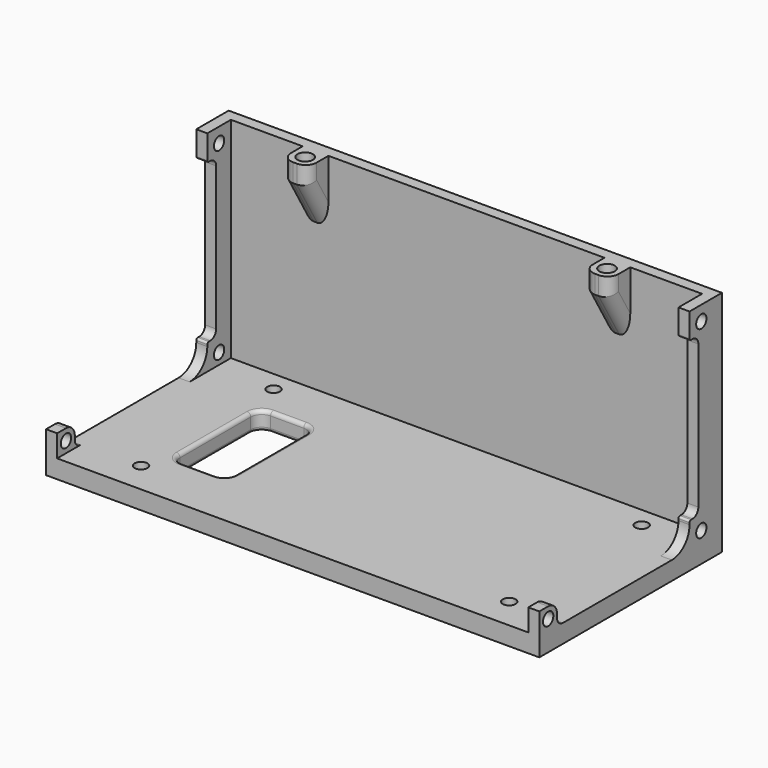
from build123d import *

# Parameters (mm, degrees)
SKETCH_W        = 134
SKETCH_H        = 62
PAD_DEPTH       = 5
SKETCH001_W     = 134
SKETCH001_H     = 3
PAD001_DEPTH    = 57
SKETCH002_W     = 7
SKETCH002_H     = 17
PAD002_DEPTH    = 7
POCKET_DEPTH    = 89
FILLET_R        = 3
SKETCH004_W     = 3
SKETCH004_H     = 57
PAD003_DEPTH    = 5
SKETCH005_W     = 3
SKETCH005_H     = 7
PAD004_DEPTH    = 3
SKETCH006_R     = 1.75
POCKET001_DEPTH = 134.001
SKETCH007_R     = 1.75
POCKET002_DEPTH = 5
SKETCH008_R     = 1.75
POCKET003_DEPTH = 5
SKETCH009_W     = 3
SKETCH009_H     = 6
PAD005_DEPTH    = 6
SKETCH010_R     = 1.75
POCKET004_DEPTH = 134.001
FILLET001_R     = 3
FILLET002_R     = 2
FILLET003_R     = 3
FILLET004_R     = 2
FILLET005_R     = 6
FILLET006_R     = 6
FILLET007_R     = 2
FILLET008_R     = 0.5
FILLET009_R     = 2
FILLET010_R     = 0.5
FILLET011_R     = 2
FILLET012_R     = 0.5
FILLET013_R     = 2
FILLET014_R     = 0.5
SKETCH011_R     = 1.75
POCKET005_DEPTH = 5
SKETCH012_R     = 2.1
POCKET006_DEPTH = 5
POCKET007_DEPTH = 5
FILLET015_R     = 1
FILLET016_R     = 1


with BuildPart() as part:
    # Sketch → Pad (new body)
    with BuildSketch(Plane.XY):
        with Locations((67, -31)):
            Rectangle(SKETCH_W, SKETCH_H)
    extrude(amount=PAD_DEPTH)

    # Sketch001 (on Face6 of Pad) → Pad001 (join)
    with BuildSketch(Plane.XY.offset(5)):
        with Locations((67, -1.5)):
            Rectangle(SKETCH001_W, SKETCH001_H)
    extrude(amount=PAD001_DEPTH)

    # Sketch002 (on Face11 of Pad001) → Pad002 (join)
    with BuildSketch(Plane.XZ.offset(3)):
        with Locations((26, 53.5)):
            Rectangle(SKETCH002_W, SKETCH002_H)
        with Locations((108, 53.5)):
            Rectangle(SKETCH002_W, SKETCH002_H)
    extrude(amount=PAD002_DEPTH)

    # Sketch003 (on Face14 of Pad002) → Pocket (cut)
    with BuildSketch(Plane(origin=(22.5, 0, 0), x_dir=(0, -1, 0), z_dir=(-1, 0, 0))):
        Polygon((3, 45), (10, 57), (10, 45), align=None)
    extrude(amount=-POCKET_DEPTH, mode=Mode.SUBTRACT)

    # Fillet
    fillet_edges = [part.edges().sort_by_distance(p)[0] for p in [
        (104.5, -10, 59.5),
        (111.5, -10, 59.5),
        (111.5, -6.5, 51),
        (104.5, -6.5, 51),
        (22.5, -10, 59.5),
        (29.5, -10, 59.5),
        (29.5, -6.5, 51),
        (22.5, -6.5, 51),
    ]]
    fillet(fillet_edges, radius=FILLET_R)

    # Sketch004 (on Face1 of Fillet) → Pad003 (join)
    with BuildSketch(Plane.XZ.offset(3)):
        with Locations((1.5, 33.5)):
            Rectangle(SKETCH004_W, SKETCH004_H)
        with Locations((132.5, 33.5)):
            Rectangle(SKETCH004_W, SKETCH004_H)
    extrude(amount=PAD003_DEPTH)

    # Sketch005 (on Face32 of Pad003) → Pad004 (join)
    with BuildSketch(Plane.XZ.offset(8)):
        with Locations((1.5, 8.5)):
            Rectangle(SKETCH005_W, SKETCH005_H)
        with Locations((1.5, 58.5)):
            Rectangle(SKETCH005_W, SKETCH005_H)
        with Locations((132.5, 8.5)):
            Rectangle(SKETCH005_W, SKETCH005_H)
        with Locations((132.5, 58.5)):
            Rectangle(SKETCH005_W, SKETCH005_H)
    extrude(amount=PAD004_DEPTH)

    # Sketch006 (on Face44 of Pad004) → Pocket001 (cut, through all)
    with BuildSketch(Plane(origin=(0, 0, 0), x_dir=(0, -1, 0), z_dir=(-1, 0, 0))):
        with Locations((7, 8)):
            Circle(SKETCH006_R)
    extrude(amount=-POCKET001_DEPTH, mode=Mode.SUBTRACT)

    # Sketch007 (on Face46 of Pocket001) → Pocket002 (cut)
    with BuildSketch(Plane(origin=(0, 0, 0), x_dir=(0, -1, 0), z_dir=(-1, 0, 0))):
        with Locations((7, 58)):
            Circle(SKETCH007_R)
    extrude(amount=-POCKET002_DEPTH, mode=Mode.SUBTRACT)

    # Sketch008 (on Face45 of Pocket002) → Pocket003 (cut)
    with BuildSketch(Plane.YZ.offset(134)):
        with Locations((-7, 58)):
            Circle(SKETCH008_R)
    extrude(amount=-POCKET003_DEPTH, mode=Mode.SUBTRACT)

    # Sketch009 (on Face10 of Pocket003) → Pad005 (join)
    with BuildSketch(Plane.XY.offset(5)):
        with Locations((1.5, -59)):
            Rectangle(SKETCH009_W, SKETCH009_H)
        with Locations((132.5, -59)):
            Rectangle(SKETCH009_W, SKETCH009_H)
    extrude(amount=PAD005_DEPTH)

    # Sketch010 (on Face60 of Pad005) → Pocket004 (cut, through all)
    with BuildSketch(Plane.YZ.offset(134)):
        with Locations((-59, 8)):
            Circle(SKETCH010_R)
    extrude(amount=-POCKET004_DEPTH, mode=Mode.SUBTRACT)

    # Fillet001
    fillet001_edges = [part.edges().sort_by_distance(p)[0] for p in [
        (132.5, -56, 11),
    ]]
    fillet(fillet001_edges, radius=FILLET001_R)

    # Fillet002
    fillet002_edges = [part.edges().sort_by_distance(p)[0] for p in [
        (132.5, -56, 5),
    ]]
    fillet(fillet002_edges, radius=FILLET002_R)

    # Fillet003
    fillet003_edges = [part.edges().sort_by_distance(p)[0] for p in [
        (1.5, -56, 11),
    ]]
    fillet(fillet003_edges, radius=FILLET003_R)

    # Fillet004
    fillet004_edges = [part.edges().sort_by_distance(p)[0] for p in [
        (1.5, -56, 5),
    ]]
    fillet(fillet004_edges, radius=FILLET004_R)

    # Fillet005
    fillet005_edges = [part.edges().sort_by_distance(p)[0] for p in [
        (1.5, -11, 5),
    ]]
    fillet(fillet005_edges, radius=FILLET005_R)

    # Fillet006
    fillet006_edges = [part.edges().sort_by_distance(p)[0] for p in [
        (132.5, -11, 5),
    ]]
    fillet(fillet006_edges, radius=FILLET006_R)

    # Fillet007
    fillet007_edges = [part.edges().sort_by_distance(p)[0] for p in [
        (1.5, -8, 12),
    ]]
    fillet(fillet007_edges, radius=FILLET007_R)

    # Fillet008
    fillet008_edges = [part.edges().sort_by_distance(p)[0] for p in [
        (1.5, -11, 12),
    ]]
    fillet(fillet008_edges, radius=FILLET008_R)

    # Fillet009
    fillet009_edges = [part.edges().sort_by_distance(p)[0] for p in [
        (132.5, -8, 12),
    ]]
    fillet(fillet009_edges, radius=FILLET009_R)

    # Fillet010
    fillet010_edges = [part.edges().sort_by_distance(p)[0] for p in [
        (132.5, -11, 12),
    ]]
    fillet(fillet010_edges, radius=FILLET010_R)

    # Fillet011
    fillet011_edges = [part.edges().sort_by_distance(p)[0] for p in [
        (1.5, -8, 55),
    ]]
    fillet(fillet011_edges, radius=FILLET011_R)

    # Fillet012
    fillet012_edges = [part.edges().sort_by_distance(p)[0] for p in [
        (1.5, -11, 55),
    ]]
    fillet(fillet012_edges, radius=FILLET012_R)

    # Fillet013
    fillet013_edges = [part.edges().sort_by_distance(p)[0] for p in [
        (132.5, -8, 55),
    ]]
    fillet(fillet013_edges, radius=FILLET013_R)

    # Fillet014
    fillet014_edges = [part.edges().sort_by_distance(p)[0] for p in [
        (132.5, -11, 55),
    ]]
    fillet(fillet014_edges, radius=FILLET014_R)

    # Sketch011 (on Face13 of Fillet014) → Pocket005 (cut)
    with BuildSketch(Plane.XY.offset(5)):
        with Locations((19, -8.5)):
            Circle(SKETCH011_R)
        with Locations((19, -53.5)):
            Circle(SKETCH011_R)
        with Locations((119, -53.5)):
            Circle(SKETCH011_R)
        with Locations((119, -8.5)):
            Circle(SKETCH011_R)
    extrude(amount=-POCKET005_DEPTH, mode=Mode.SUBTRACT)

    # Sketch012 (on Face73 of Pocket005) → Pocket006 (cut)
    with BuildSketch(Plane.XY.offset(62)):
        with Locations((26, -6.5)):
            Circle(SKETCH012_R)
        with Locations((108, -6.5)):
            Circle(SKETCH012_R)
    extrude(amount=-POCKET006_DEPTH, mode=Mode.SUBTRACT)

    # Sketch013 (on Face47 of Pocket006) → Pocket007 (cut)
    with BuildSketch(Plane(origin=(0, 0, 0), x_dir=(1, 0, 0), z_dir=(0, 0, -1))):
        with BuildLine():
            ThreePointArc((25, 47), (22.87868, 46.12132), (22, 44))
            Line((22, 20), (22, 44))
            ThreePointArc((22, 20), (22.87868, 17.87868), (25, 17))
            Line((34, 17), (25, 17))
            ThreePointArc((34, 17), (36.12132, 17.87868), (37, 20))
            Line((37, 44), (37, 20))
            ThreePointArc((37, 44), (36.12132, 46.12132), (34, 47))
            Line((25, 47), (34, 47))
        make_face()
    extrude(amount=-POCKET007_DEPTH, mode=Mode.SUBTRACT)

    # Fillet015
    fillet015_edges = [part.edges().sort_by_distance(p)[0] for p in [
        (22, -32, 0),
        (22.87868, -46.12132, 0),
        (29.5, -47, 0),
        (36.12132, -46.12132, 0),
        (37, -32, 0),
        (36.12132, -17.87868, 0),
        (29.5, -17, 0),
        (22.87868, -17.87868, 0),
    ]]
    fillet(fillet015_edges, radius=FILLET015_R)

    # Fillet016
    fillet016_edges = [part.edges().sort_by_distance(p)[0] for p in [
        (22, -32, 5),
        (22.87868, -17.87868, 5),
        (29.5, -17, 5),
        (36.12132, -17.87868, 5),
        (37, -32, 5),
        (36.12132, -46.12132, 5),
        (29.5, -47, 5),
        (22.87868, -46.12132, 5),
    ]]
    fillet(fillet016_edges, radius=FILLET016_R)


solid = part.part
